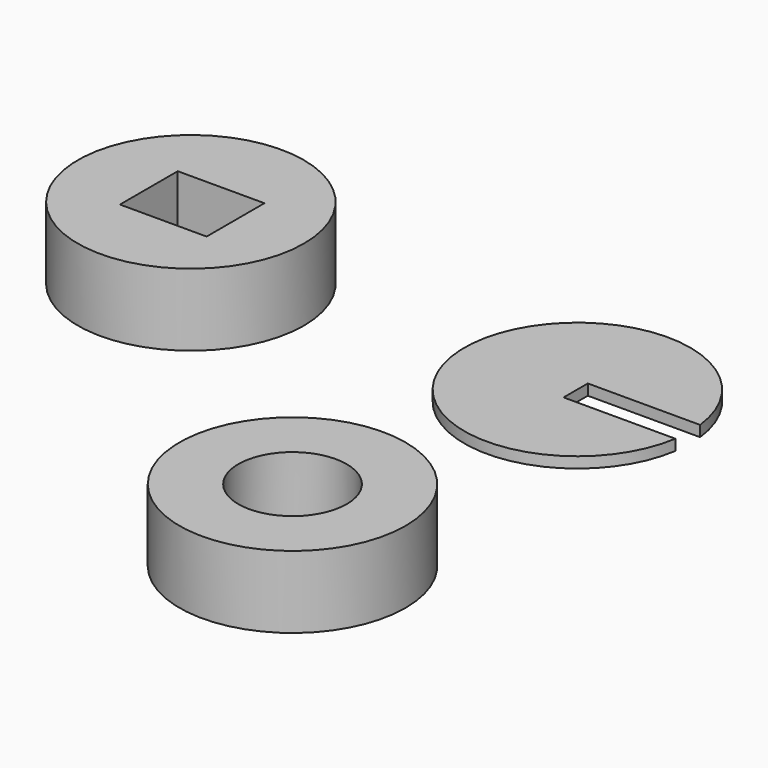
from build123d import *

# Parameters (mm, degrees)
F0_R     = 15.65
F0_R_2   = 7.5
F1_DEPTH = 10
F2_R     = 15.65
F2_W     = 12
F2_H     = 10
F3_DEPTH = 10
F5_DEPTH = 1.5


with BuildPart() as f1:
    # F0 (on Top) → F1 (new body)
    with BuildSketch(Plane.XY):
        Circle(F0_R)
        Circle(F0_R_2, mode=Mode.SUBTRACT)
    extrude(amount=F1_DEPTH)


with BuildPart() as f3:
    # F2 (on Top) → F3 (new body)
    with BuildSketch(Plane.XY):
        with Locations((-49.859468, 44.733729)):
            Circle(F2_R)
        with Locations((-49.451185, 44.452665)):
            Rectangle(F2_W, F2_H, mode=Mode.SUBTRACT)
    extrude(amount=F3_DEPTH)


with BuildPart() as f5:
    # F4 (on Top) → F5 (new body)
    with BuildSketch(Plane.XY):
        with BuildLine():
            Line((0, 51.096842), (15.545448, 51.096842))
            ThreePointArc((15.545448, 51.096842), (-15.647246, 49.584437), (15.466766, 46.903055))
            Line((15.466766, 46.903055), (0, 46.903055))
            Line((0, 46.903055), (0, 51.096842))
        make_face()
    extrude(amount=F5_DEPTH)


solid = Compound([f1.part, f3.part, f5.part])
